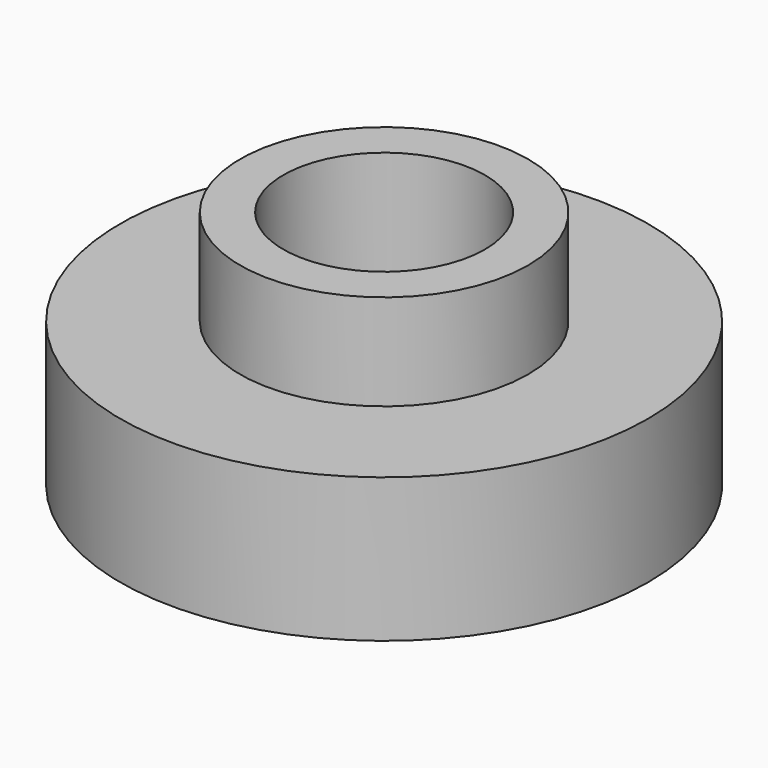
from build123d import *

# Parameters (mm, degrees)
SKETCH_R     = 5.5
PAD_DEPTH    = 3
SKETCH001_R  = 3
PAD001_DEPTH = 2
SKETCH002_R  = 2.1
POCKET_DEPTH = 5


with BuildPart() as part:
    # Sketch → Pad (new body)
    with BuildSketch(Plane.XY):
        Circle(SKETCH_R)
    extrude(amount=PAD_DEPTH)

    # Sketch001 (on Face3 of Pad) → Pad001 (join)
    with BuildSketch(Plane.XY.offset(3)):
        Circle(SKETCH001_R)
    extrude(amount=PAD001_DEPTH)

    # Sketch002 (on Face5 of Pad001) → Pocket (cut)
    with BuildSketch(Plane.XY.offset(5)):
        Circle(SKETCH002_R)
    extrude(amount=-POCKET_DEPTH, mode=Mode.SUBTRACT)


solid = part.part
